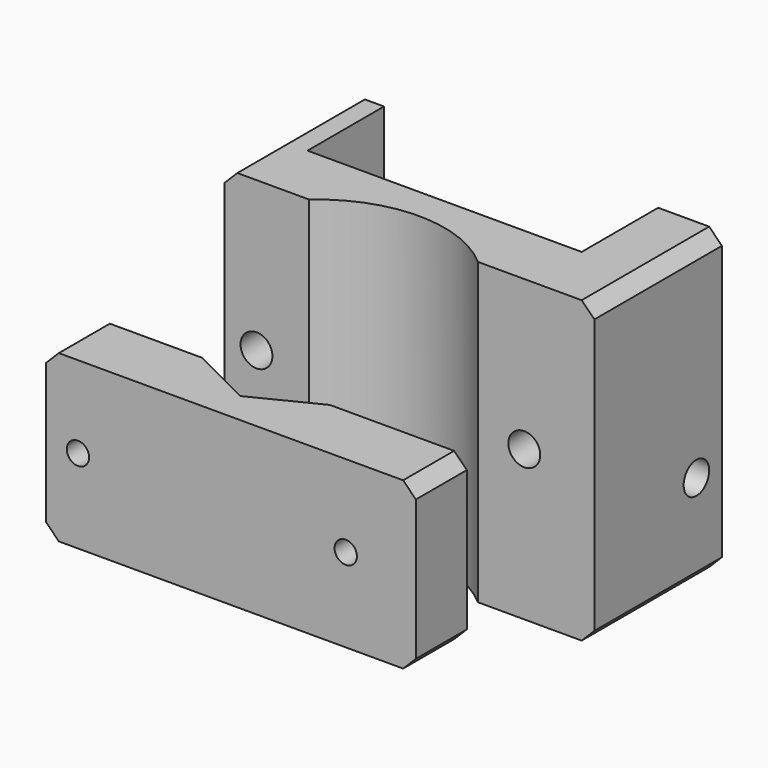
from build123d import *

# Parameters (mm, degrees)
F1_DEPTH  = 47
F0_W      = 5
F0_H      = 15
F2_DEPTH  = 5
F3_R      = 2.5
F4_DEPTH  = 60
F5_R      = 2.5
F6_DEPTH  = 60
F8_DEPTH  = 15
F9_SIZE   = 2
F11_W     = 18.2712434447
F11_H     = 26
F11_R     = 2.5
F11_W_2   = 26.4575131106
F11_W_3   = 13.2712434447
F11_R_2   = 1.75
F12_DEPTH = 10
F13_SIZE  = 2
F15_DEPTH = 40


with BuildPart() as f1:
    # F0 (on Top) → F1 (new body)
    with BuildSketch(Plane.XY):
        with BuildLine():
            Line((-21.5, 10), (-26.5, 10))
            Line((-26.5, 10), (-26.5, -10))
            Line((-26.5, -10), (-26.5, -15))
            Line((-26.5, -15), (-13.2287565553, -15))
            ThreePointArc((-13.2287565553, -15), (0, -10), (13.2287565553, -15))
            Line((13.2287565553, -15), (31.5, -15))
            Line((31.5, -15), (31.5, -10))
            Line((31.5, -10), (31.5, 10))
            Line((31.5, 10), (21.5, 10))
            Line((21.5, 10), (21.5, -5))
            Line((21.5, -5), (16.5, -5))
            Line((16.5, -5), (-16.5, -5))
            Line((-16.5, -5), (-21.5, -5))
            Line((-21.5, -5), (-21.5, 10))
        make_face()
    extrude(amount=F1_DEPTH)

    # F0 (on Top) → F2 (join)
    with BuildSketch(Plane.XY):
        with Locations((-19, 2.5)):
            Rectangle(F0_W, F0_H)
        with Locations((19, 2.5)):
            Rectangle(F0_W, F0_H)
    extrude(amount=F2_DEPTH)

    # F3 (on face) → F4 (cut)
    with BuildSketch(Plane(origin=(-26.5, 0, 0), x_dir=(0, -1, 0), z_dir=(-1, 0, 0))):
        with Locations((-5, 15)):
            Circle(F3_R)
    extrude(amount=-F4_DEPTH, mode=Mode.SUBTRACT)

    # F5 (on face) → F6 (cut)
    with BuildSketch(Plane.XZ.offset(15)):
        with Locations((20.5, 23.5)):
            Circle(F5_R)
        with Locations((-21.5, 23.5)):
            Circle(F5_R)
    extrude(amount=-F6_DEPTH, mode=Mode.SUBTRACT)

    # F7 (on face) → F8 (join)
    with BuildSketch(Plane(origin=(0, -5, 0), x_dir=(-1, 0, 0), z_dir=(0, 1, 0))):
        Polygon((16.5, 5), (21.5, 5), (21.5, 10), align=None)
        Polygon((-21.5, 5), (-16.5, 5), (-21.5, 10), align=None)
    extrude(amount=F8_DEPTH)

    # F9
    f9_edges = [f1.edges().sort_by_distance(p)[0] for p in [
        (31.5, -2.5, 0),
        (-26.5, -2.5, 0),
        (-26.5, -2.5, 47),
        (31.5, -2.5, 47),
    ]]
    chamfer(f9_edges, length=F9_SIZE)


with BuildPart() as f12:
    # F11 (on offset) → F12 (new body)
    with BuildSketch(Plane.XZ.offset(40)):
        with Locations((22.3643782777, 23.3637194261)):
            Rectangle(F11_W, F11_H)
        with Locations((20.5, 23.5)):
            Circle(F11_R, mode=Mode.SUBTRACT)
        with Locations((0, 23.3637194261)):
            Rectangle(F11_W_2, F11_H)
        with Locations((-19.8643782777, 23.3637194261)):
            Rectangle(F11_W_3, F11_H)
        with Locations((-21.5, 23.5)):
            Circle(F11_R, mode=Mode.SUBTRACT)
        with Locations((20.5, 23.5)):
            Circle(F11_R)
        with Locations((20.5, 23.5)):
            Circle(F11_R_2, mode=Mode.SUBTRACT)
        with Locations((-21.5, 23.5)):
            Circle(F11_R)
        with Locations((-21.5, 23.5)):
            Circle(F11_R_2, mode=Mode.SUBTRACT)
    extrude(amount=F12_DEPTH)

    # F13
    f13_edges = [f12.edges().sort_by_distance(p)[0] for p in [
        (-26.5, -45, 10.363719),
        (-26.5, -45, 36.363719),
        (31.5, -45, 36.363719),
        (31.5, -45, 10.363719),
    ]]
    chamfer(f13_edges, length=F13_SIZE)

    # F14 (on face) → F15 (cut)
    with BuildSketch(Plane(origin=(0, 0, 10.3637194261), x_dir=(1, 0, 0), z_dir=(0, 0, -1))):
        Polygon((10, 40), (0, 45), (-10, 40), align=None)
    extrude(amount=-F15_DEPTH, mode=Mode.SUBTRACT)


solid = Compound([f1.part, f12.part])
